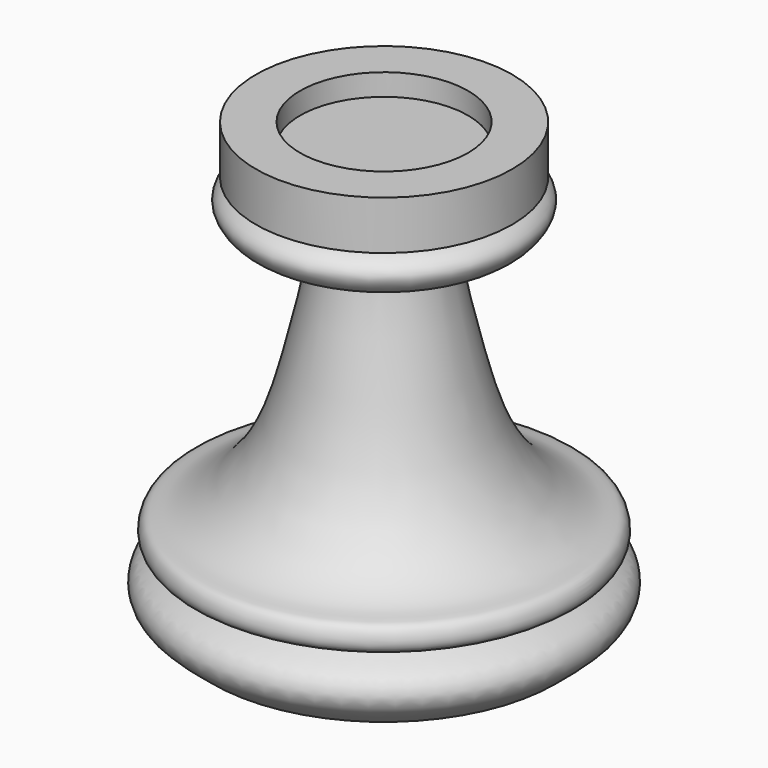
from build123d import *


with BuildPart() as f1:
    # F0 (on Front) → F1 (revolve)
    with BuildSketch(Plane.XZ):
        with BuildLine():
            Line((11.6993812844, 27.378199622), (0, 27.378199622))
            Line((0, 27.378199622), (0, -30.7560488582))
            Line((0, -30.7560488582), (23.8608885556, -30.7560488582))
            add(Edge.make_bspline(
                [(23.8608885556, -30.7560488582), (24.5933260941, -30.1514504341), (26.0244152867, -28.9701425065), (28.1129288139, -27.1453076724), (27.724819491, -23.4267474423), (23.6843399938, -22.2275266084), (23.8334786345, -21.9212153789), (23.8608885556, -21.8649189919)],
                knots=[0, 0, 0, 0, 0.2278976163, 0.4452827695, 0.6862551255, 0.9423373969, 1, 1, 1, 1], degree=3))
            add(Edge.make_bspline(
                [(23.8608885556, -21.8649189919), (25.0156210056, -21.5491542532), (27.1860600174, -20.9556417842), (26.5182559869, -17.4500804997), (23.5397902626, -17.7021570545), (18.0565972261, -14.2878060097), (13.8014158542, -7.7703084137), (11.4684846903, -0.3087738395), (8.1921464828, 13.5035493763), (8.1055923638, 16.8545016516), (8.0745983869, 18.0544368923)],
                knots=[0, 0, 0, 0, 0.093242417, 0.1752587618, 0.2586618288, 0.3907824261, 0.536672613, 0.6900750113, 0.8890196322, 1, 1, 1, 1], degree=3))
            add(Edge.make_bspline(
                [(8.0745983869, 18.0544368923), (11.2817604302, 17.8184456192), (16.1581594981, 17.4596275711), (18.099860581, 19.1260604946), (19.0331946236, 20.9237611344), (17.9311149535, 22.6447217964), (16.4145861338, 23.2630987521), (15.5834862962, 23.6019864678)],
                knots=[0, 0, 0, 0, 0.3328239979, 0.5060494641, 0.6599088276, 0.8136206088, 1, 1, 1, 1], degree=3))
            Line((15.5834862962, 23.6019864678), (17.8492125124, 23.6019864678))
            Line((17.8492125124, 23.6019864678), (17.8492125124, 30.3991679102))
            Line((17.8492125124, 30.3991679102), (11.6993812844, 30.3991679102))
            Line((11.6993812844, 30.3991679102), (11.6993812844, 27.378199622))
        make_face()
    revolve(axis=Axis((0, 0, 4.4455658644), (0, 0, -1)))


solid = f1.part
